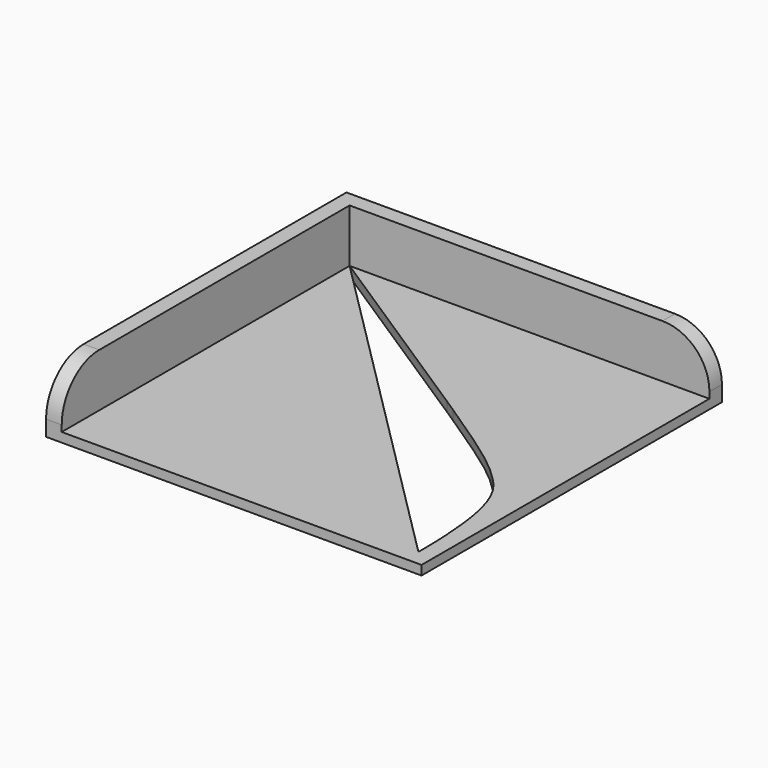
from build123d import *

# Parameters (mm, degrees)
F1_DEPTH = 3
F2_DEPTH = 20
F3_R     = 15


with BuildPart() as f1:
    # F0 (on Top) → F1 (new body)
    with BuildSketch(Plane.XY):
        Polygon((-84.4418774851, 68.0992258621), (-63.2286740495, 46.8860224265), (56.7713259505, 46.8860224265), align=None)
        Polygon((-63.2286740495, -73.1139775735), (-63.2286740495, 46.8860224265), (-84.4418774851, 68.0992258621), align=None)
        Polygon((-4.9964410025, -11.3462106205), (-58.2286740495, 41.8860224265), (-58.2286740495, -64.5784436676), align=None)
        with BuildLine():
            Line((48.2357920445, 41.8860224265), (-58.2286740495, 41.8860224265))
            add(Edge.make_bspline(
                [(-58.2286740495, 41.8860224265), (-27.8640476191, 22.2185579574), (-7.5944812554, 9.133690918), (6.3497696181, 0)],
                knots=[0, 0, 0, 0, 0.2321080347, 0.2321080347, 0.2321080347, 0.2321080347], degree=3))
            Line((6.3497696181, 0), (48.2357920445, 41.8860224265))
        make_face()
        Polygon((56.7713259505, 46.8860224265), (-63.2286740495, 46.8860224265), (-58.2286740495, 41.8860224265), (48.2357920445, 41.8860224265), (51.7713259505, 41.8860224265), (56.7713259505, 41.8860224265), align=None)
        Polygon((-58.2286740495, 41.8860224265), (-63.2286740495, 46.8860224265), (-63.2286740495, -73.1139775735), (-58.2286740495, -73.1139775735), (-58.2286740495, -68.1139775735), (-58.2286740495, -64.5784436676), align=None)
        Polygon((-1.4609070965, -14.8817445265), (-4.9964410025, -11.3462106205), (-58.2286740495, -64.5784436676), (-58.2286740495, -68.1139775735), (-54.6931401436, -68.1139775735), align=None)
        Polygon((51.7713259505, -68.1139775735), (-1.4609070965, -14.8817445265), (-54.6931401436, -68.1139775735), align=None)
        Polygon((-58.2286740495, -68.1139775735), (-58.2286740495, -73.1139775735), (56.7713259505, -73.1139775735), (51.7713259505, -68.1139775735), (-54.6931401436, -68.1139775735), align=None)
        Polygon((56.7713259505, -73.1139775735), (56.7713259505, 41.8860224265), (51.7713259505, 41.8860224265), (51.7713259505, 38.3504885206), (51.7713259505, -68.1139775735), align=None)
        with BuildLine():
            Line((51.7713259505, 38.3504885206), (10.6181651037, -2.8026723262))
            add(Edge.make_bspline(
                [(10.6181651037, -2.8026723262), (30.4463258159, -15.8579047438), (41.1308559966, -24.0461336089), (51.7713259505, -36.9598713142), (51.7713259505, -68.1139775735)],
                knots=[0.2569737781, 0.2569737781, 0.2569737781, 0.2569737781, 0.6213011396, 1, 1, 1, 1], degree=3))
            Line((51.7713259505, -68.1139775735), (51.7713259505, 38.3504885206))
        make_face()
        with BuildLine():
            Line((51.7713259505, 41.8860224265), (48.2357920445, 41.8860224265))
            Line((48.2357920445, 41.8860224265), (6.3497696181, 0))
            add(Edge.make_bspline(
                [(6.3497696181, 0), (7.8436177985, -0.9784926908), (9.2648713079, -1.9116383422), (10.6181651037, -2.8026723262)],
                knots=[0.2321080347, 0.2321080347, 0.2321080347, 0.2321080347, 0.2569737781, 0.2569737781, 0.2569737781, 0.2569737781], degree=3))
            Line((10.6181651037, -2.8026723262), (51.7713259505, 38.3504885206))
            Line((51.7713259505, 38.3504885206), (51.7713259505, 41.8860224265))
        make_face()
    extrude(amount=F1_DEPTH)

    # F0 (on Top) → F2 (join)
    with BuildSketch(Plane.XY):
        Polygon((56.7713259505, 46.8860224265), (-63.2286740495, 46.8860224265), (-58.2286740495, 41.8860224265), (48.2357920445, 41.8860224265), (51.7713259505, 41.8860224265), (56.7713259505, 41.8860224265), align=None)
        Polygon((-58.2286740495, 41.8860224265), (-63.2286740495, 46.8860224265), (-63.2286740495, -73.1139775735), (-58.2286740495, -73.1139775735), (-58.2286740495, -68.1139775735), (-58.2286740495, -64.5784436676), align=None)
    extrude(amount=F2_DEPTH)

    # F3
    f3_edges = [f1.edges().sort_by_distance(p)[0] for p in [
        (-60.728674, -73.113978, 20),
        (56.771326, 44.386022, 20),
        (-84.441877, 68.099226, 1.5),
    ]]
    fillet(f3_edges, radius=F3_R)


solid = f1.part
